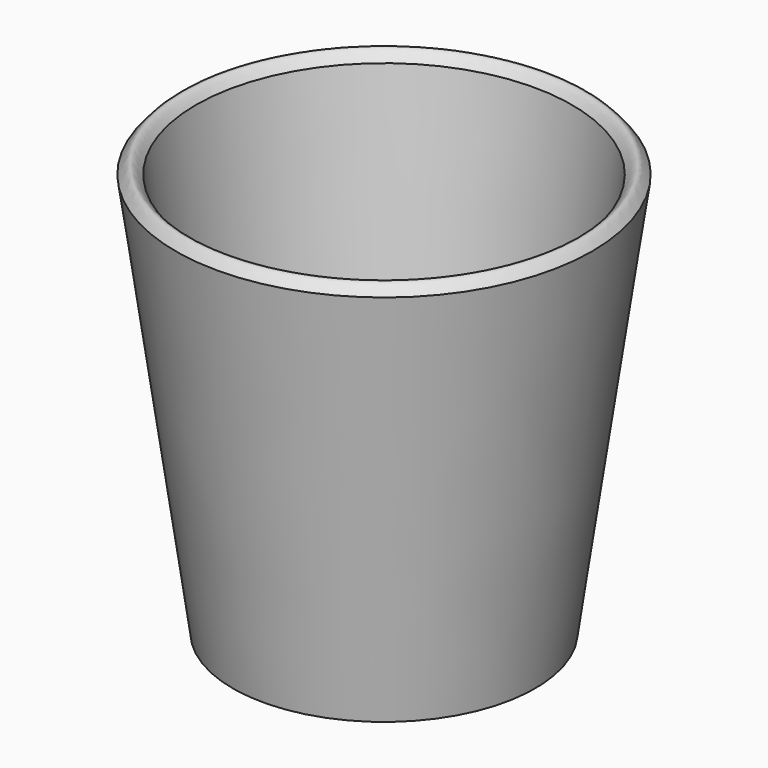
from build123d import *


with BuildPart() as f1:
    # F0 (on Front) → F1 (revolve)
    with BuildSketch(Plane.XZ):
        with BuildLine():
            Line((-18.145233, 3.579942), (0, 3.579942))
            Line((0, 3.579942), (0, 4.531703))
            Line((0, 4.531703), (-15.314218, 4.531703))
            add(Edge.make_bspline(
                [(-16.4809, 5.327168), (-16.294403, 4.473175), (-15.863169, 4.548172), (-15.314218, 4.531703)],
                knots=[0, 0, 0, 0, 1.41206, 1.41206, 1.41206, 1.41206], degree=3))
            Line((-16.4809, 5.327168), (-22.561931, 51.975407))
            add(Edge.make_bspline(
                [(-24.988035, 51.975407), (-24.054635, 53.13205), (-23.763896, 53.768419), (-22.561931, 51.975407)],
                knots=[0, 0, 0, 0, 2.426104, 2.426104, 2.426104, 2.426104], degree=3))
            Line((-24.988035, 51.975407), (-18.145233, 3.579942))
        make_face()
    revolve(axis=Axis((0, 0, 4.055822), (0, 0, -1)))


solid = f1.part
